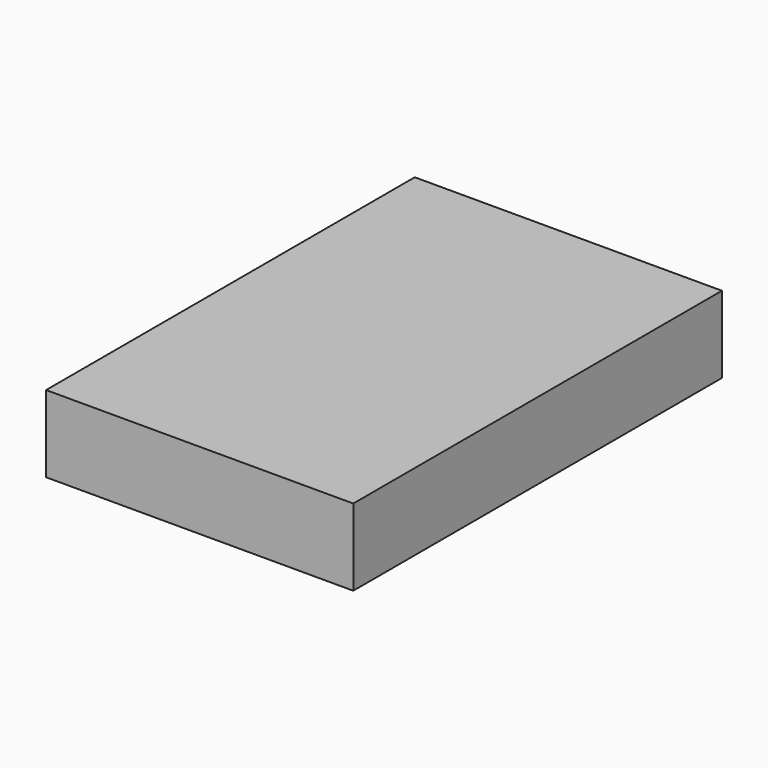
from build123d import *

# Parameters (mm, degrees)
F0_W     = 4
F0_H     = 20
F1_DEPTH = 10


with BuildPart() as f1:
    # F0 (on Top) → F1 (new body)
    with BuildSketch(Plane.XY):
        Polygon((20, -30), (20, 30), (4, 30), (4, 10), (0, 10), (-4, 10), (-4, 30), (-20, 30), (-20, -30), align=None)
        with Locations((-2, 20)):
            Rectangle(F0_W, F0_H)
        with Locations((2, 20)):
            Rectangle(F0_W, F0_H)
    extrude(amount=F1_DEPTH)


solid = f1.part
